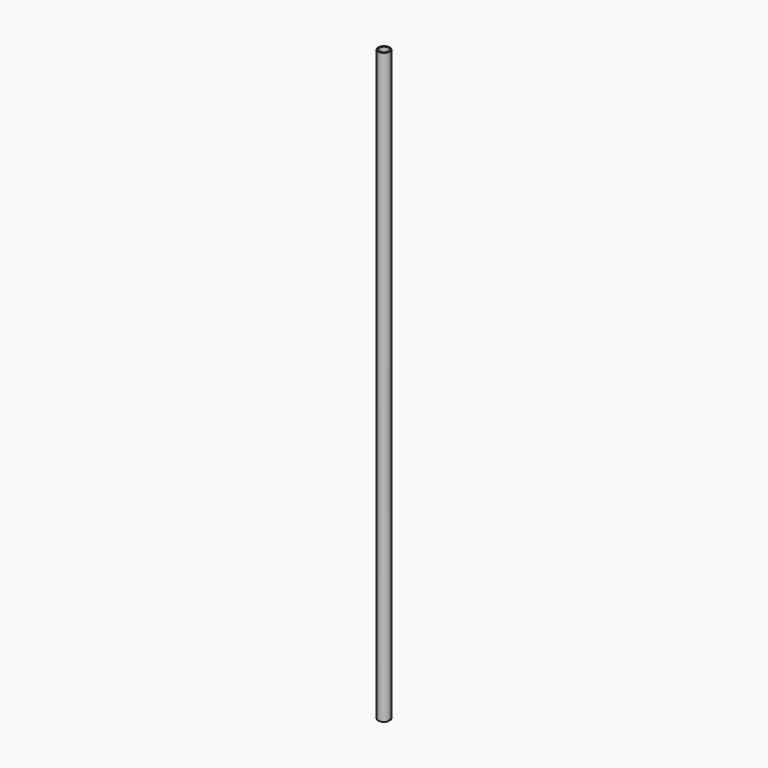
from build123d import *

# Parameters (mm, degrees)
CYLINDER002_R     = 2
CYLINDER002_DEPTH = 22
CYLINDER001_R     = 9
CYLINDER001_DEPTH = 1120
CYLINDER_R        = 11
CYLINDER_DEPTH    = 1120


with BuildPart() as cylinder002:
    # Cylinder002 → Cylinder002 (new body)
    with BuildSketch(Plane(origin=(-11, 0, 0), x_dir=(0, 0, -1), z_dir=(1, 0, 0))):
        Circle(CYLINDER002_R)
    extrude(amount=CYLINDER002_DEPTH)


with BuildPart() as cylinder001:
    # Cylinder001 → Cylinder001 (new body)
    with BuildSketch(Plane.XY):
        Circle(CYLINDER001_R)
    extrude(amount=CYLINDER001_DEPTH)


with BuildPart() as body:
    # Cylinder → Cylinder (new body)
    with BuildSketch(Plane.XY):
        Circle(CYLINDER_R)
    extrude(amount=CYLINDER_DEPTH)

    # Cut: cut Cylinder001
    add(cylinder001.part, mode=Mode.SUBTRACT)

    # Cut001: cut Cylinder002
    add(cylinder002.part, mode=Mode.SUBTRACT)


solid = body.part
